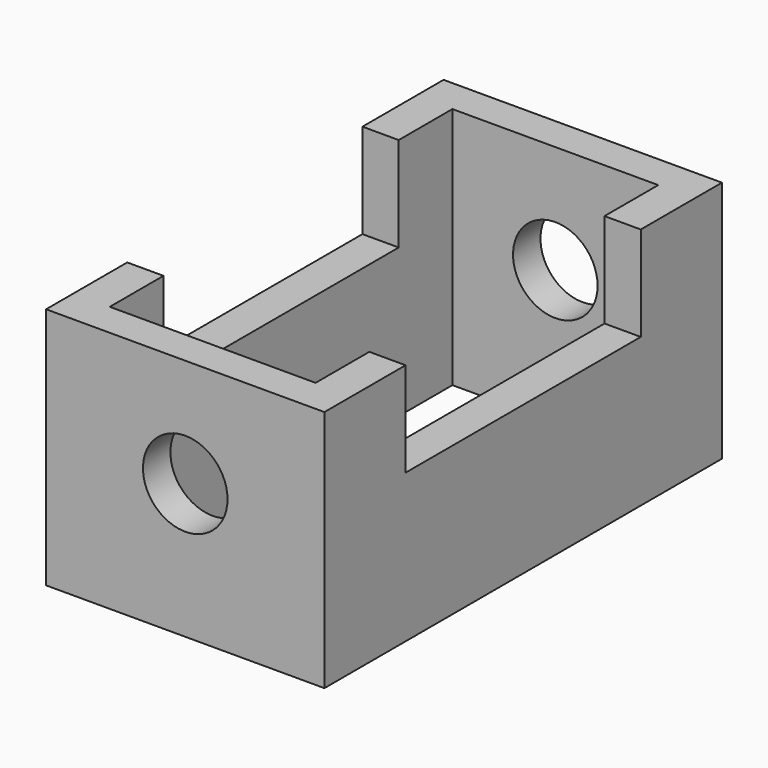
from build123d import *

# Parameters (mm, degrees)
F0_W     = 72.713092
F0_H     = 129.808232
F1_DEPTH = 63.5
F2_R     = 11.045044
F3_DEPTH = 129.809232
F4_W     = 76.8096
F4_H     = 25.091141
F5_DEPTH = 72.714092
F6_W     = 53.76672
F6_H     = 111.88598
F7_DEPTH = 63.501


with BuildPart() as f1:
    # F0 (on Top) → F1 (new body)
    with BuildSketch(Plane.XY):
        Rectangle(F0_W, F0_H)
    extrude(amount=F1_DEPTH)

    # F2 (on face) → F3 (cut, through all)
    with BuildSketch(Plane.XZ.offset(64.904116)):
        with Locations((0, 35.204399)):
            Circle(F2_R)
    extrude(amount=-F3_DEPTH, mode=Mode.SUBTRACT)

    # F4 (on face) → F5 (cut, through all)
    with BuildSketch(Plane.YZ.offset(36.356546)):
        with Locations((0, 51.334418)):
            Rectangle(F4_W, F4_H)
    extrude(amount=-F5_DEPTH, mode=Mode.SUBTRACT)

    # F6 (on Top) → F7 (cut, through all)
    with BuildSketch(Plane.XY):
        Rectangle(F6_W, F6_H)
    extrude(amount=F7_DEPTH, mode=Mode.SUBTRACT)


solid = f1.part
